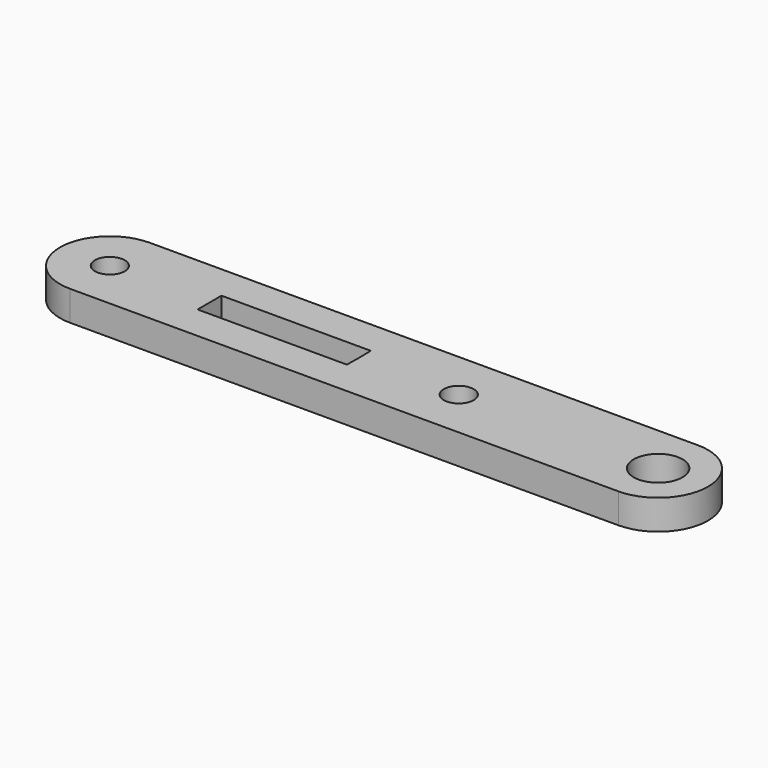
from build123d import *

# Parameters (mm, degrees)
F0_R     = 1.5
F1_DEPTH = 3


with BuildPart() as f1:
    # F0 (on Top) → F1 (new body)
    with BuildSketch(Plane.XY):
        with BuildLine():
            Line((-35, -5), (20, -5))
            ThreePointArc((20, -5), (25, 0), (20, 5))
            Line((20, 5), (-35, 5))
            ThreePointArc((-35, 5), (-38.535534, 3.535534), (-40, 0))
            ThreePointArc((-40, 0), (-38.535534, -3.535534), (-35, -5))
        make_face()
        with Locations((-35, 0)):
            Circle(F0_R, mode=Mode.SUBTRACT)
        Polygon((-25, -1.499771), (-25, 0), (-25, 1.499771), (-10.026213, 1.499771), (-10, 0), (-10.026213, -1.499771), align=None, mode=Mode.SUBTRACT)
        Circle(F0_R, mode=Mode.SUBTRACT)
        with BuildLine():
            ThreePointArc((17.55, 0), (20, 2.45), (22.45, 0))
            ThreePointArc((22.45, 0), (20, -2.45), (17.55, 0))
        make_face(mode=Mode.SUBTRACT)
    extrude(amount=F1_DEPTH)


solid = f1.part
